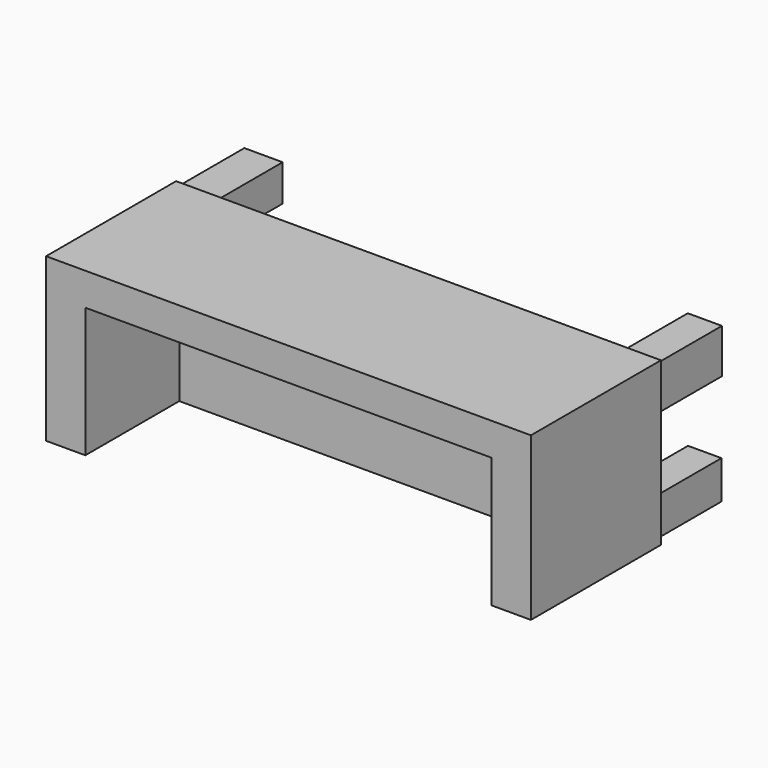
from build123d import *

# Parameters (mm, degrees)
F0_W     = 75.76968
F0_H     = 25.4
F1_DEPTH = 25.4
F3_DEPTH = 31.75
F4_W     = 5.986491
F4_H     = 5.698793
F4_W_2   = 6.224596
F4_H_2   = 6.43815
F4_W_3   = 5.22054
F4_H_3   = 5.975276
F4_W_4   = 5.337961
F4_H_4   = 6.926889
F5_DEPTH = 12.7


with BuildPart() as f1:
    # F0 (on Front) → F1 (new body)
    with BuildSketch(Plane.XZ):
        Rectangle(F0_W, F0_H)
    extrude(amount=F1_DEPTH)

    # F2 (on Right) → F3 (cut, symmetric)
    with BuildSketch(Plane.YZ):
        Polygon((-6.912117, 7.487419), (-35.072637, 7.678879), (-39.277993, -27.769957), (-7.134533, -25.226125), align=None)
    extrude(amount=F3_DEPTH, both=True, mode=Mode.SUBTRACT)

    # F4 (on Front) → F5 (join)
    with BuildSketch(Plane.XZ):
        with Locations((-34.387763, 9.403795)):
            Rectangle(F4_W, F4_H)
        with Locations((-34.247685, -9.749556)):
            Rectangle(F4_W_2, F4_H_2)
        with Locations((34.564514, -9.146943)):
            Rectangle(F4_W_3, F4_H_3)
        with Locations((34.584024, 8.600718)):
            Rectangle(F4_W_4, F4_H_4)
    extrude(amount=-F5_DEPTH)


solid = f1.part
